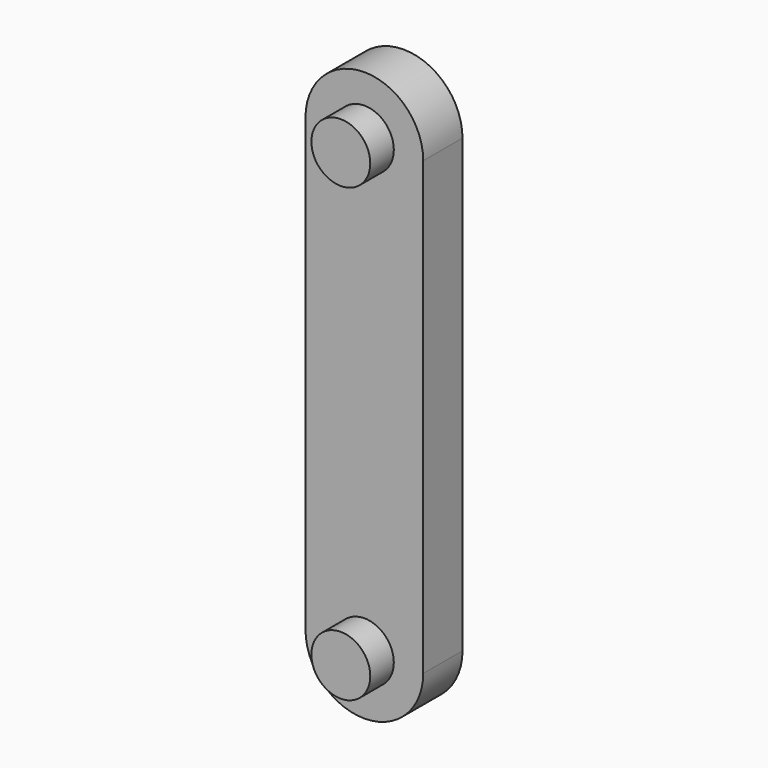
from build123d import *

# Parameters (mm, degrees)
F1_DEPTH = 5
F2_R     = 3
F3_DEPTH = 3


with BuildPart() as f1:
    # F0 (on Front) → F1 (new body)
    with BuildSketch(Plane.XZ):
        with BuildLine():
            Line((0, 46), (0, 0))
            ThreePointArc((0, 0), (6, -6), (12, 0))
            Line((12, 0), (12, 46))
            ThreePointArc((12, 46), (6, 52), (0, 46))
        make_face()
    extrude(amount=F1_DEPTH)

    # F2 (on face) → F3 (join)
    with BuildSketch(Plane.XZ.offset(5)):
        with Locations((6, 46)):
            Circle(F2_R)
        with Locations((6, 0)):
            Circle(F2_R)
    extrude(amount=F3_DEPTH)


solid = f1.part
